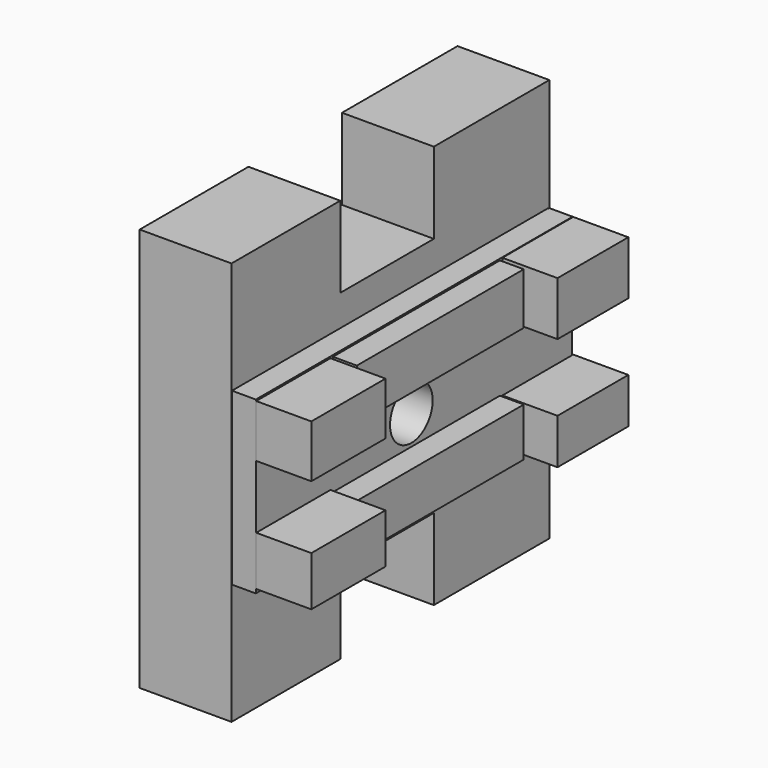
from build123d import *

# Parameters (mm, degrees)
F1_DEPTH = 25.4
F2_W     = 109.303277
F2_H     = 47.219016
F3_DEPTH = 32.004
F4_W     = 25.649838
F4_H     = 14.573772
F4_H_2   = 13.699345
F4_W_2   = 0.291478
F4_H_3   = 14.865246
F4_W_3   = 24.192456
F4_W_4   = 24.483934
F4_H_4   = 12.533444
F5_DEPTH = 47.244
F6_W     = 57.712132
F6_H     = 14.282296
F6_H_2   = 13.407867
F7_DEPTH = 38.608
F8_R     = 7.375251
F9_DEPTH = 65.278


with BuildPart() as f1:
    # F0 (on Right) → F1 (new body)
    with BuildSketch(Plane.YZ):
        Polygon((-16.322624, 56.109019), (-53.922951, 56.109019), (-53.922951, -55.526067), (-16.322624, -55.526067), (-16.322624, -33.082449), (16.031148, -33.082449), (16.031148, -55.526067), (55.963278, -55.526067), (55.963278, 56.109019), (16.031148, 56.109019), (16.031148, 33.665407), (-16.322624, 33.665407), align=None)
    extrude(amount=F1_DEPTH)

    # F2 (on Right) → F3 (join)
    with BuildSketch(Plane.YZ):
        with Locations((0.874429, 1.457378)):
            Rectangle(F2_W, F2_H)
    extrude(amount=F3_DEPTH)

    # F4 (on Right) → F5 (join)
    with BuildSketch(Plane.YZ):
        with Locations((-40.806558, 17.342787)):
            Rectangle(F4_W, F4_H)
        with Locations((-40.806558, -14.282296)):
            Rectangle(F4_W, F4_H_2)
        with Locations((55.817539, 17.488524)):
            Rectangle(F4_W_2, F4_H_3)
        with Locations((43.575572, 17.488524)):
            Rectangle(F4_W_3, F4_H_3)
        with Locations((43.721311, -14.865246)):
            Rectangle(F4_W_4, F4_H_4)
    extrude(amount=F5_DEPTH)

    # F6 (on Right) → F7 (join)
    with BuildSketch(Plane.YZ):
        with Locations((1.748853, 17.488525)):
            Rectangle(F6_W, F6_H)
        with Locations((1.748853, -15.010982)):
            Rectangle(F6_W, F6_H_2)
    extrude(amount=F7_DEPTH)

    # F8 (on Right) → F9 (cut)
    with BuildSketch(Plane.YZ):
        Circle(F8_R)
    extrude(amount=F9_DEPTH, mode=Mode.SUBTRACT)


solid = f1.part
